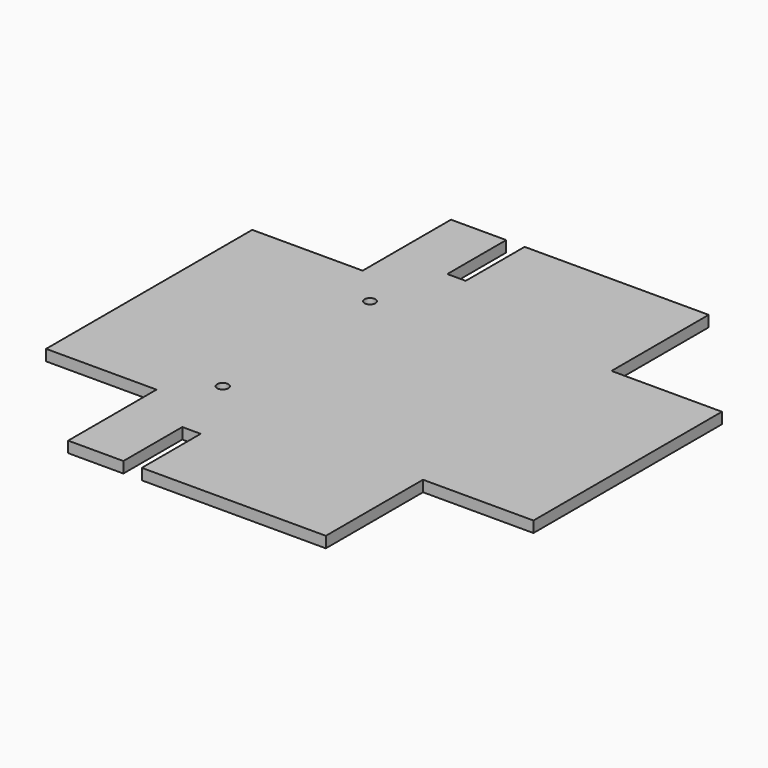
from build123d import *

# Parameters (mm, degrees)
F0_R     = 1.521295
F0_R_2   = 1.48996
F1_DEPTH = 3


with BuildPart() as f1:
    # F0 (on Top) → F1 (new body)
    with BuildSketch(Plane.XY):
        Polygon((-39.972701, 87.465831), (-54.972701, 87.465831), (-54.972701, 57.465831), (-84.972701, 57.465831), (-84.972701, -12.534169), (-54.972701, -12.534169), (-54.972701, -42.534169), (-39.972701, -42.534169), (-39.972701, -22.534169), (-34.972701, -22.534169), (-34.972701, -42.534169), (15.027299, -42.534169), (15.027299, -9.534169), (45.027299, -9.534169), (45.027299, 54.465831), (15.027299, 54.465831), (15.027299, 87.465831), (-34.972701, 87.465831), (-34.972701, 67.465831), (-39.972701, 67.465831), align=None)
        with Locations((-44.972701, -2.534169)):
            Circle(F0_R, mode=Mode.SUBTRACT)
        with Locations((-44.972701, 47.465831)):
            Circle(F0_R_2, mode=Mode.SUBTRACT)
    extrude(amount=F1_DEPTH)


solid = f1.part
